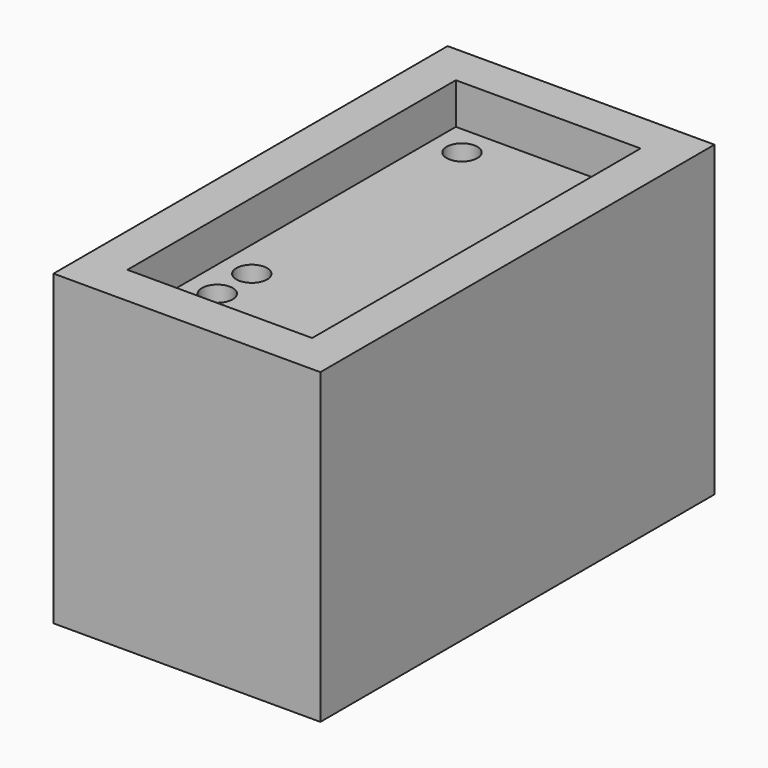
from build123d import *

# Parameters (mm, degrees)
F0_W     = 13
F0_H     = 24
F0_W_2   = 9
F0_H_2   = 20
F1_DEPTH = 10
F0_R     = 0.75
F2_DEPTH = 8
F3_DEPTH = 5


with BuildPart() as f1:
    # F0 (on Top) → F1 (new body)
    with BuildSketch(Plane.XY):
        with Locations((8.4202193944, -4.6071633101)):
            Rectangle(F0_W, F0_H)
        with Locations((8.4202193944, -4.6071633101)):
            Rectangle(F0_W_2, F0_H_2, mode=Mode.SUBTRACT)
        with Locations((8.4202193944, -4.6071633101)):
            Rectangle(F0_W, F0_H)
        with Locations((8.4202193944, -4.6071633101)):
            Rectangle(F0_W_2, F0_H_2, mode=Mode.SUBTRACT)
    extrude(amount=F1_DEPTH)

    # F0 (on Top) → F2 (join)
    with BuildSketch(Plane.XY):
        with Locations((8.4202193944, -4.6071633101)):
            Rectangle(F0_W, F0_H)
        with Locations((8.4202193944, -4.6071633101)):
            Rectangle(F0_W_2, F0_H_2, mode=Mode.SUBTRACT)
        with Locations((8.4202193944, -4.6071633101)):
            Rectangle(F0_W, F0_H)
        with Locations((8.4202193944, -4.6071633101)):
            Rectangle(F0_W_2, F0_H_2, mode=Mode.SUBTRACT)
        with Locations((8.4202193944, -4.6071633101)):
            Rectangle(F0_W_2, F0_H_2)
        with Locations((5.4202193944, -13.1071633101)):
            Circle(F0_R, mode=Mode.SUBTRACT)
        with Locations((5.4202193944, -11.0071633101)):
            Circle(F0_R, mode=Mode.SUBTRACT)
        with Locations((7.5202193944, -13.1071633101)):
            Circle(F0_R, mode=Mode.SUBTRACT)
        with Locations((5.4202193944, -8.9071633101)):
            Circle(F0_R, mode=Mode.SUBTRACT)
        with Locations((5.4202193944, 3.8928366899)):
            Circle(F0_R, mode=Mode.SUBTRACT)
        with Locations((11.4202193944, 1.8928366899)):
            Circle(F0_R, mode=Mode.SUBTRACT)
    extrude(amount=F2_DEPTH)

    # F0 (on Top) → F3 (join)
    with BuildSketch(Plane.XY):
        with Locations((8.4202193944, -4.6071633101)):
            Rectangle(F0_W, F0_H)
        with Locations((8.4202193944, -4.6071633101)):
            Rectangle(F0_W_2, F0_H_2, mode=Mode.SUBTRACT)
        with Locations((8.4202193944, -4.6071633101)):
            Rectangle(F0_W, F0_H)
        with Locations((8.4202193944, -4.6071633101)):
            Rectangle(F0_W_2, F0_H_2, mode=Mode.SUBTRACT)
    extrude(amount=-F3_DEPTH)


solid = f1.part
